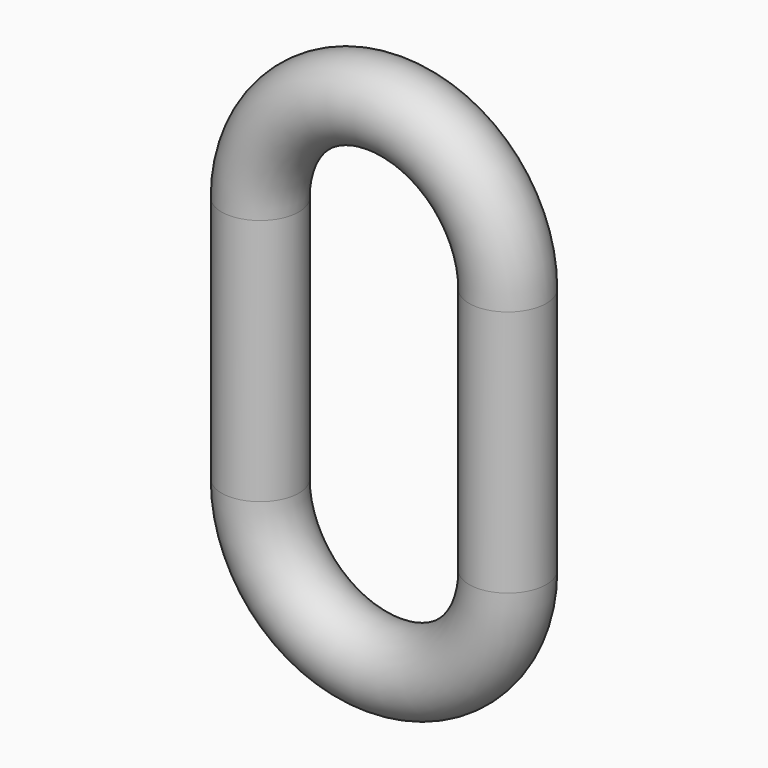
from build123d import *

# Parameters (mm, degrees)
F1_R = 3.96875


with BuildPart() as f2:
    # F2: sweep along a path in F0
    with BuildLine(Plane.XZ) as f2_path:
        Line((0, 0), (0, 25.4))
        ThreePointArc((0, 25.4), (-12.7, 38.1), (-25.4, 25.4))
        Line((-25.4, 25.4), (-25.4, 0))
        ThreePointArc((-25.4, 0), (-12.7, -12.7), (0, 0))
    # F1 (on Top) → F2 (sweep)
    with BuildSketch(Plane.XY):
        Circle(F1_R)
    sweep(path=f2_path.line)


solid = f2.part
